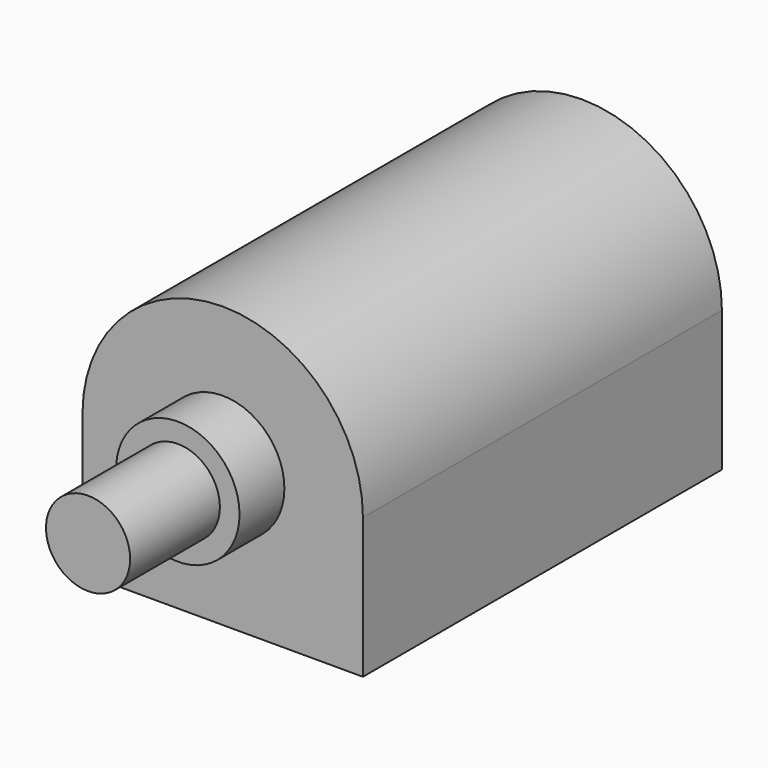
from build123d import *

# Parameters (mm, degrees)
F1_DEPTH = 8
F2_R     = 1.1
F3_DEPTH = 1
F4_R     = 0.75
F5_DEPTH = 2


with BuildPart() as f1:
    # F0 (on Front) → F1 (new body)
    with BuildSketch(Plane.XZ):
        with BuildLine():
            ThreePointArc((2.5, 0), (0, 2.5), (-2.5, 0))
            Line((-2.5, 0), (-2.5, -2.5))
            Line((-2.5, -2.5), (2.5, -2.5))
            Line((2.5, -2.5), (2.5, 0))
        make_face()
    extrude(amount=F1_DEPTH)

    # F2 (on face) → F3 (join)
    with BuildSketch(Plane.XZ.offset(8)):
        Circle(F2_R)
    extrude(amount=F3_DEPTH)

    # F4 (on face) → F5 (join)
    with BuildSketch(Plane.XZ.offset(9)):
        Circle(F4_R)
    extrude(amount=F5_DEPTH)


solid = f1.part
